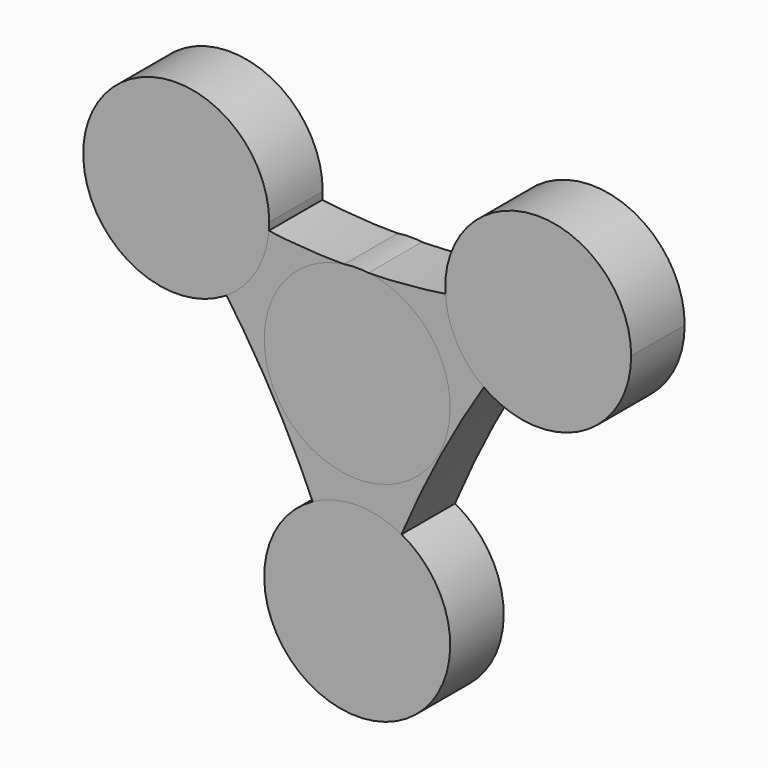
from build123d import *

# Parameters (mm, degrees)
F2_DEPTH = 8


with BuildPart() as f2:
    # F1 (on Front) → F2 (new body)
    with BuildSketch(Plane.XZ):
        with BuildLine():
            ThreePointArc((1.6496168674, -25.001052938), (0.0185421059, -25.0554093961), (-1.6126113213, -25.0034671305))
            ThreePointArc((-1.6126113213, -25.0034671305), (-0.76924926, -27.7359109748), (0, -30.4901376367))
            ThreePointArc((0, -30.4901376367), (0.7930786895, -27.7360596499), (1.6496168674, -25.001052938))
        make_face()
        with BuildLine():
            ThreePointArc((-22.2095475261, 11.597839562), (-10.0777383133, -5.6711235714), (-1.6126113213, -25.0034671305))
            ThreePointArc((-1.6126113213, -25.0034671305), (0.0185421059, -25.0554093961), (1.6496168674, -25.001052938))
            ThreePointArc((1.6496168674, -25.001052938), (10.0083170152, -5.3106119186), (21.6277983208, 12.6495938122))
            ThreePointArc((21.6277983208, 12.6495938122), (21.2158870276, 13.3289167395), (20.7826457315, 13.9948390565))
            ThreePointArc((20.7826457315, 13.9948390565), (-0.1065903299, 10.9717091805), (-21.0506176136, 13.5884282351))
            ThreePointArc((-21.0506176136, 13.5884282351), (-21.6529693759, 12.6064587027), (-22.2095475261, 11.597839562))
        make_face()
        with BuildLine():
            ThreePointArc((-25.0524058938, 14.7595563903), (-23.61510149, 13.1929721836), (-22.2095475261, 11.597839562))
            ThreePointArc((-22.2095475261, 11.597839562), (-21.6529693759, 12.6064587027), (-21.0506176136, 13.5884282351))
            ThreePointArc((-21.0506176136, 13.5884282351), (-23.0592408517, 14.1475816988), (-25.0524058938, 14.7595563903))
        make_face()
        with BuildLine():
            ThreePointArc((20.7826457315, 13.9948390565), (21.2158870276, 13.3289167395), (21.6277983208, 12.6495938122))
            ThreePointArc((21.6277983208, 12.6495938122), (22.4604471385, 13.7091322212), (23.3045648783, 14.7595563903))
            ThreePointArc((23.3045648783, 14.7595563903), (22.0467947412, 14.3666794572), (20.7826457315, 13.9948390565))
        make_face()
    extrude(amount=F2_DEPTH)


with BuildPart() as f2b:
    # F0 (on Front) → F2, piece 2 (new body)
    with BuildSketch(Plane.XZ):
        with BuildLine():
            ThreePointArc((11.125, -25), (7.8665629407, -17.1334370593), (0, -13.875))
            ThreePointArc((0, -13.875), (-7.8665629407, -32.8665629407), (11.125, -25))
        make_face()
    extrude(amount=F2_DEPTH)


with BuildPart() as f2c:
    # F0 (on Front) → F2, piece 3 (new body)
    with BuildSketch(Plane.XZ):
        with BuildLine():
            Line((0, 0), (9.6345326171, 5.5625))
            ThreePointArc((9.6345326171, 5.5625), (0, 11.125), (-9.6345326171, 5.5625))
            Line((-9.6345326171, 5.5625), (0, 0))
        make_face()
        with BuildLine():
            ThreePointArc((-9.6345326171, 5.5625), (-9.6345326171, -5.5625), (0, -11.125))
            Line((0, -11.125), (0, 0))
            Line((0, 0), (-9.6345326171, 5.5625))
        make_face()
        with BuildLine():
            ThreePointArc((0, -11.125), (7.8665629407, -7.8665629407), (11.125, 0))
            ThreePointArc((11.125, 0), (10.7459248175, 2.8793618768), (9.6345326171, 5.5625))
            Line((9.6345326171, 5.5625), (0, 0))
            Line((0, 0), (0, -11.125))
        make_face()
    extrude(amount=F2_DEPTH)


with BuildPart() as f2d:
    # F0 (on Front) → F2, piece 4 (new body)
    with BuildSketch(Plane.XZ):
        with BuildLine():
            ThreePointArc((-10.5256350946, 12.5), (-32.3965599121, 15.3793618768), (-12.0161024775, 6.9375))
            ThreePointArc((-12.0161024775, 6.9375), (-10.9047102771, 9.6206381232), (-10.5256350946, 12.5))
        make_face()
    extrude(amount=F2_DEPTH)


with BuildPart() as f2e:
    # F0 (on Front) → F2, piece 5 (new body)
    with BuildSketch(Plane.XZ):
        with BuildLine():
            ThreePointArc((32.7756350946, 12.5), (18.7712732178, 23.2459248175), (12.0161024775, 6.9375))
            ThreePointArc((12.0161024775, 6.9375), (24.5299969714, 1.7540751825), (32.7756350946, 12.5))
        make_face()
    extrude(amount=F2_DEPTH)


solid = Compound([f2.part, f2b.part, f2c.part, f2d.part, f2e.part])
